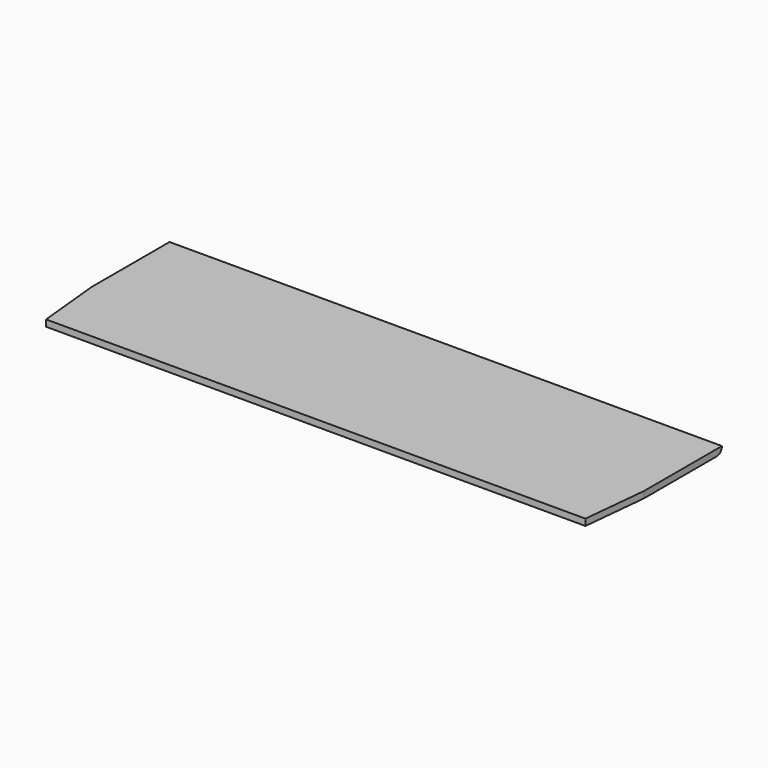
from build123d import *

# Parameters (mm, degrees)
F1_DEPTH = 2
F3_DEPTH = 170


with BuildPart() as f1:
    # F0 (on Top) → F1 (new body)
    with BuildSketch(Plane.XY):
        Polygon((84.566931, 0.678322), (-85.433069, 0.678322), (-85.433069, -27.321678), (-83.433069, -47.321678), (82.566931, -47.321678), (84.566931, -27.321678), align=None)
    extrude(amount=F1_DEPTH)

    # F2 (on face) → F3 (join)
    with BuildSketch(Plane.YZ.offset(84.566931)):
        with BuildLine():
            Line((0.678322, 2), (0.678322, 0))
            ThreePointArc((0.678322, 0), (2.092536, 0.585786), (2.678322, 2))
            Line((2.678322, 2), (0.678322, 2))
        make_face()
    extrude(amount=-F3_DEPTH)


solid = f1.part
